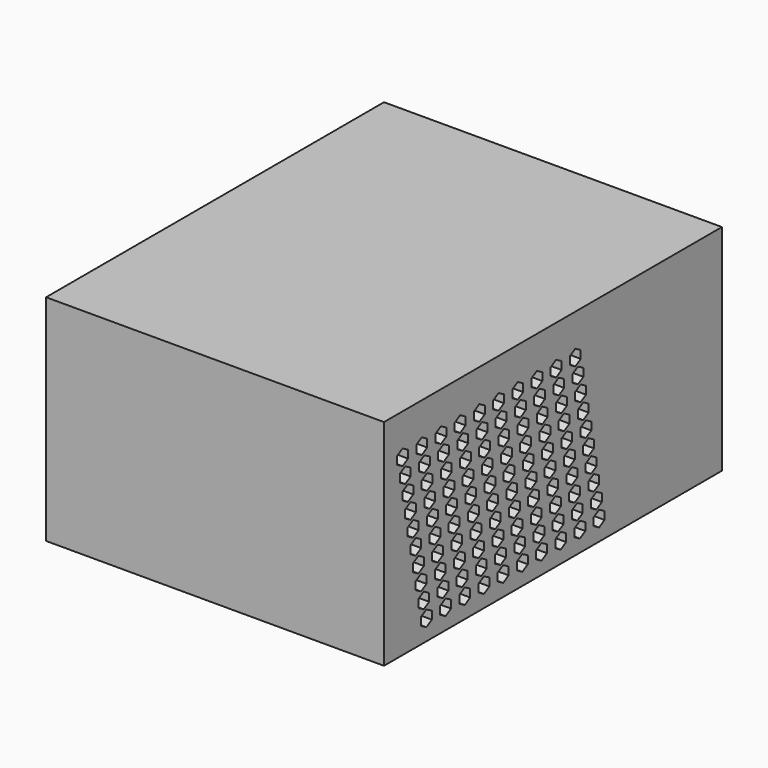
from build123d import *

# Parameters (mm, degrees)
F0_W      = 100
F0_H      = 125
F1_DEPTH  = 63.5
F3_D      = 3.7973
F3_DEPTH  = 15.81
F3_TIP    = 1.1408240143
F2_W      = 27
F2_H      = 20
F2_W_2    = 15
F2_H_2    = 10
F2_W_3    = 11
F2_H_3    = 7
F4_DEPTH  = 2
F2_W_4    = 0.793337822
F2_H_4    = 2.6066917926
F5_DEPTH  = 10
F6_DEPTH  = 100.001
F8_DEPTH  = 25
F10_START = 1.5
F9_R      = 45.5793106307
F10_DEPTH = 49.4


with BuildPart() as f1:
    # F0 (on Top) → F1 (new body)
    with BuildSketch(Plane.XY):
        Rectangle(F0_W, F0_H)
    extrude(amount=F1_DEPTH)

    # F3
    with Locations(Plane(origin=(-50, 0, 0), x_dir=(0, -1, 0), z_dir=(-1, 0, 0))):
        with Locations((-56.5, 57.5), (-56.5, 6), (-56.5, 31.8), (56.5, 6), (56.5, 31.8), (56.5, 57.5)):
            Hole(F3_D / 2, depth=F3_DEPTH)
            with Locations((0, 0, -(F3_DEPTH + F3_TIP / 2))):  # 118° drill point
                Cone(0, F3_D / 2, F3_TIP, mode=Mode.SUBTRACT)

    # F2 (on face) → F4 (join)
    with BuildSketch(Plane(origin=(-50, 0, 0), x_dir=(0, -1, 0), z_dir=(-1, 0, 0))):
        with Locations((-36.0971478522, 32.9822052637)):
            Rectangle(F2_W, F2_H)
        Polygon((-26.4780379832, 26.9658826292), (-45.6803441048, 26.9658826292), (-45.6803441048, 35.9738171101), (-42.5558009178, 39.6074281954), (-29.6030379832, 39.6074281954), (-26.4780379832, 35.9738171101), align=None, mode=Mode.SUBTRACT)
        with Locations((-42.0971478522, 16.0745094717)):
            Rectangle(F2_W_2, F2_H_2)
        with Locations((-42.038947314, 16.0784985721)):
            Rectangle(F2_W_3, F2_H_3, mode=Mode.SUBTRACT)
    extrude(amount=F4_DEPTH)

    # F2 (on face) → F5 (cut)
    with BuildSketch(Plane(origin=(-50, 0, 0), x_dir=(0, -1, 0), z_dir=(-1, 0, 0))):
        Polygon((-45.6803441048, 35.9738171101), (-45.6803441048, 26.9658826292), (-26.4780379832, 26.9658826292), (-26.4780379832, 35.9738171101), (-29.6030379832, 39.6074281954), (-42.5558009178, 39.6074281954), align=None)
        with Locations((-39.9250648916, 30.7356692478)):
            Rectangle(F2_W_4, F2_H_4, mode=Mode.SUBTRACT)
        with Locations((-31.7026637495, 30.6698288769)):
            Rectangle(F2_W_4, F2_H_4, mode=Mode.SUBTRACT)
        with Locations((-36.0245741904, 34.5517806709)):
            Rectangle(F2_W_4, F2_H_4, mode=Mode.SUBTRACT)
    extrude(amount=-F5_DEPTH, mode=Mode.SUBTRACT)

    # F2 (on face) → F6 (cut, through all)
    with BuildSketch(Plane(origin=(-50, 0, 0), x_dir=(0, -1, 0), z_dir=(-1, 0, 0))):
        Polygon((48.8388012663, 6), (44.821796523, 6), (44.821796523, 4.8403906151), (46.8302988946, 3.6807812302), (48.8388012663, 4.8403906151), align=None)
        Polygon((44.821796523, 7.1596093849), (44.821796523, 6), (48.8388012663, 6), (48.8388012663, 7.1596093849), (46.8302988946, 8.3192187698), align=None)
        Polygon((47.8085023716, 13.3788281547), (45.8, 12.2192187698), (45.8, 9.9), (47.8085023716, 8.7403906151), (49.8170047432, 9.9), (49.8170047432, 12.2192187698), align=None)
        Polygon((48.7867058486, 18.4384375397), (46.778203477, 17.2788281547), (46.778203477, 14.9596093849), (48.7867058486, 13.8), (50.7952082202, 14.9596093849), (50.7952082202, 17.2788281547), align=None)
        Polygon((49.7649093255, 23.4980469246), (47.7564069539, 22.3384375397), (47.7564069539, 20.0192187698), (49.7649093255, 18.8596093849), (51.7734116971, 20.0192187698), (51.7734116971, 22.3384375397), align=None)
        Polygon((50.7431128025, 28.5576563095), (48.7346104309, 27.3980469246), (48.7346104309, 25.0788281547), (50.7431128025, 23.9192187698), (52.7516151741, 25.0788281547), (52.7516151741, 27.3980469246), align=None)
        Polygon((51.7213162795, 33.6172656944), (49.7128139079, 32.4576563095), (49.7128139079, 30.1384375397), (51.7213162795, 28.9788281547), (53.7298186511, 30.1384375397), (53.7298186511, 32.4576563095), align=None)
        Polygon((52.6995197564, 38.6768750793), (50.6910173848, 37.5172656944), (50.6910173848, 35.1980469246), (52.6995197564, 34.0384375397), (54.708022128, 35.1980469246), (54.708022128, 37.5172656944), align=None)
        Polygon((53.6777232334, 43.7364844642), (51.6692208618, 42.5768750793), (51.6692208618, 40.2576563095), (53.6777232334, 39.0980469246), (55.686225605, 40.2576563095), (55.686225605, 42.5768750793), align=None)
        Polygon((54.6559267104, 48.7960938492), (52.6474243388, 47.6364844642), (52.6474243388, 45.3172656944), (54.6559267104, 44.1576563095), (56.664429082, 45.3172656944), (56.664429082, 47.6364844642), align=None)
        Polygon((55.6341301873, 53.8557032341), (53.6256278157, 52.6960938492), (53.6256278157, 50.3768750793), (55.6341301873, 49.2172656944), (57.6426325589, 50.3768750793), (57.6426325589, 52.6960938492), align=None)
        Polygon((37.721796523, 7.1596093849), (37.721796523, 6), (41.7388012663, 6), (41.7388012663, 7.1596093849), (39.7302988946, 8.3192187698), align=None)
        Polygon((41.7388012663, 6), (37.721796523, 6), (37.721796523, 4.8403906151), (39.7302988946, 3.6807812302), (41.7388012663, 4.8403906151), align=None)
        Polygon((34.6388012663, 6), (30.621796523, 6), (30.621796523, 4.8403906151), (32.6302988946, 3.6807812302), (34.6388012663, 4.8403906151), align=None)
        Polygon((30.621796523, 7.1596093849), (30.621796523, 6), (34.6388012663, 6), (34.6388012663, 7.1596093849), (32.6302988946, 8.3192187698), align=None)
        Polygon((23.521796523, 7.1596093849), (23.521796523, 6), (27.5388012663, 6), (27.5388012663, 7.1596093849), (25.5302988946, 8.3192187698), align=None)
        Polygon((27.5388012663, 6), (23.521796523, 6), (23.521796523, 4.8403906151), (25.5302988946, 3.6807812302), (27.5388012663, 4.8403906151), align=None)
        Polygon((20.4388012663, 6), (16.421796523, 6), (16.421796523, 4.8403906151), (18.4302988946, 3.6807812302), (20.4388012663, 4.8403906151), align=None)
        Polygon((16.421796523, 7.1596093849), (16.421796523, 6), (20.4388012663, 6), (20.4388012663, 7.1596093849), (18.4302988946, 8.3192187698), align=None)
        Polygon((9.321796523, 7.1596093849), (9.321796523, 6), (13.3388012663, 6), (13.3388012663, 7.1596093849), (11.3302988946, 8.3192187698), align=None)
        Polygon((13.3388012663, 6), (9.321796523, 6), (9.321796523, 4.8403906151), (11.3302988946, 3.6807812302), (13.3388012663, 4.8403906151), align=None)
        Polygon((6.2388012663, 6), (2.221796523, 6), (2.221796523, 4.8403906151), (4.2302988946, 3.6807812302), (6.2388012663, 4.8403906151), align=None)
        Polygon((2.221796523, 7.1596093849), (2.221796523, 6), (6.2388012663, 6), (6.2388012663, 7.1596093849), (4.2302988946, 8.3192187698), align=None)
        Polygon((-4.878203477, 7.1596093849), (-4.878203477, 6), (-0.8611987337, 6), (-0.8611987337, 7.1596093849), (-2.8697011054, 8.3192187698), align=None)
        Polygon((-0.8611987337, 6), (-4.878203477, 6), (-4.878203477, 4.8403906151), (-2.8697011054, 3.6807812302), (-0.8611987337, 4.8403906151), align=None)
        Polygon((-7.9611987337, 6), (-11.978203477, 6), (-11.978203477, 4.8403906151), (-9.9697011054, 3.6807812302), (-7.9611987337, 4.8403906151), align=None)
        Polygon((-11.978203477, 7.1596093849), (-11.978203477, 6), (-7.9611987337, 6), (-7.9611987337, 7.1596093849), (-9.9697011054, 8.3192187698), align=None)
        Polygon((-19.078203477, 7.1596093849), (-19.078203477, 6), (-15.0611987337, 6), (-15.0611987337, 7.1596093849), (-17.0697011054, 8.3192187698), align=None)
        Polygon((-15.0611987337, 6), (-19.078203477, 6), (-19.078203477, 4.8403906151), (-17.0697011054, 3.6807812302), (-15.0611987337, 4.8403906151), align=None)
        Polygon((-16.0914976284, 13.3788281547), (-18.1, 12.2192187698), (-18.1, 9.9), (-16.0914976284, 8.7403906151), (-14.0829952568, 9.9), (-14.0829952568, 12.2192187698), align=None)
        Polygon((-15.1132941514, 18.4384375397), (-17.121796523, 17.2788281547), (-17.121796523, 14.9596093849), (-15.1132941514, 13.8), (-13.1047917798, 14.9596093849), (-13.1047917798, 17.2788281547), align=None)
        Polygon((-8.0132941514, 18.4384375397), (-10.021796523, 17.2788281547), (-10.021796523, 14.9596093849), (-8.0132941514, 13.8), (-6.0047917798, 14.9596093849), (-6.0047917798, 17.2788281547), align=None)
        Polygon((-8.9914976284, 13.3788281547), (-11, 12.2192187698), (-11, 9.9), (-8.9914976284, 8.7403906151), (-6.9829952568, 9.9), (-6.9829952568, 12.2192187698), align=None)
        Polygon((-7.0350906745, 23.4980469246), (-9.0435930461, 22.3384375397), (-9.0435930461, 20.0192187698), (-7.0350906745, 18.8596093849), (-5.0265883029, 20.0192187698), (-5.0265883029, 22.3384375397), align=None)
        Polygon((-14.1350906745, 23.4980469246), (-16.1435930461, 22.3384375397), (-16.1435930461, 20.0192187698), (-14.1350906745, 18.8596093849), (-12.1265883029, 20.0192187698), (-12.1265883029, 22.3384375397), align=None)
        Polygon((-13.1568871975, 28.5576563095), (-15.1653895691, 27.3980469246), (-15.1653895691, 25.0788281547), (-13.1568871975, 23.9192187698), (-11.1483848259, 25.0788281547), (-11.1483848259, 27.3980469246), align=None)
        Polygon((-6.0568871975, 28.5576563095), (-8.0653895691, 27.3980469246), (-8.0653895691, 25.0788281547), (-6.0568871975, 23.9192187698), (-4.0483848259, 25.0788281547), (-4.0483848259, 27.3980469246), align=None)
        Polygon((-5.0786837205, 33.6172656944), (-7.0871860921, 32.4576563095), (-7.0871860921, 30.1384375397), (-5.0786837205, 28.9788281547), (-3.0701813489, 30.1384375397), (-3.0701813489, 32.4576563095), align=None)
        Polygon((-4.1004802436, 38.6768750793), (-6.1089826152, 37.5172656944), (-6.1089826152, 35.1980469246), (-4.1004802436, 34.0384375397), (-2.091977872, 35.1980469246), (-2.091977872, 37.5172656944), align=None)
        Polygon((-3.1222767666, 43.7364844642), (-5.1307791382, 42.5768750793), (-5.1307791382, 40.2576563095), (-3.1222767666, 39.0980469246), (-1.113774395, 40.2576563095), (-1.113774395, 42.5768750793), align=None)
        Polygon((-2.1440732896, 48.7960938492), (-4.1525756612, 47.6364844642), (-4.1525756612, 45.3172656944), (-2.1440732896, 44.1576563095), (-0.135570918, 45.3172656944), (-0.135570918, 47.6364844642), align=None)
        Polygon((-1.1658698127, 53.8557032341), (-3.1743721843, 52.6960938492), (-3.1743721843, 50.3768750793), (-1.1658698127, 49.2172656944), (0.8426325589, 50.3768750793), (0.8426325589, 52.6960938492), align=None)
        Polygon((-8.2658698127, 53.8557032341), (-10.2743721843, 52.6960938492), (-10.2743721843, 50.3768750793), (-8.2658698127, 49.2172656944), (-6.2573674411, 50.3768750793), (-6.2573674411, 52.6960938492), align=None)
        Polygon((-9.2440732896, 48.7960938492), (-11.2525756612, 47.6364844642), (-11.2525756612, 45.3172656944), (-9.2440732896, 44.1576563095), (-7.235570918, 45.3172656944), (-7.235570918, 47.6364844642), align=None)
        Polygon((-10.2222767666, 43.7364844642), (-12.2307791382, 42.5768750793), (-12.2307791382, 40.2576563095), (-10.2222767666, 39.0980469246), (-8.213774395, 40.2576563095), (-8.213774395, 42.5768750793), align=None)
        Polygon((-11.2004802436, 38.6768750793), (-13.2089826152, 37.5172656944), (-13.2089826152, 35.1980469246), (-11.2004802436, 34.0384375397), (-9.191977872, 35.1980469246), (-9.191977872, 37.5172656944), align=None)
        Polygon((-12.1786837205, 33.6172656944), (-14.1871860921, 32.4576563095), (-14.1871860921, 30.1384375397), (-12.1786837205, 28.9788281547), (-10.1701813489, 30.1384375397), (-10.1701813489, 32.4576563095), align=None)
        Polygon((-1.8914976284, 13.3788281547), (-3.9, 12.2192187698), (-3.9, 9.9), (-1.8914976284, 8.7403906151), (0.1170047432, 9.9), (0.1170047432, 12.2192187698), align=None)
        Polygon((-0.9132941514, 18.4384375397), (-2.921796523, 17.2788281547), (-2.921796523, 14.9596093849), (-0.9132941514, 13.8), (1.0952082202, 14.9596093849), (1.0952082202, 17.2788281547), align=None)
        Polygon((6.1867058486, 18.4384375397), (4.178203477, 17.2788281547), (4.178203477, 14.9596093849), (6.1867058486, 13.8), (8.1952082202, 14.9596093849), (8.1952082202, 17.2788281547), align=None)
        Polygon((5.2085023716, 13.3788281547), (3.2, 12.2192187698), (3.2, 9.9), (5.2085023716, 8.7403906151), (7.2170047432, 9.9), (7.2170047432, 12.2192187698), align=None)
        Polygon((7.1649093255, 23.4980469246), (5.1564069539, 22.3384375397), (5.1564069539, 20.0192187698), (7.1649093255, 18.8596093849), (9.1734116971, 20.0192187698), (9.1734116971, 22.3384375397), align=None)
        Polygon((0.0649093255, 23.4980469246), (-1.9435930461, 22.3384375397), (-1.9435930461, 20.0192187698), (0.0649093255, 18.8596093849), (2.0734116971, 20.0192187698), (2.0734116971, 22.3384375397), align=None)
        Polygon((1.0431128025, 28.5576563095), (-0.9653895691, 27.3980469246), (-0.9653895691, 25.0788281547), (1.0431128025, 23.9192187698), (3.0516151741, 25.0788281547), (3.0516151741, 27.3980469246), align=None)
        Polygon((2.0213162795, 33.6172656944), (0.0128139079, 32.4576563095), (0.0128139079, 30.1384375397), (2.0213162795, 28.9788281547), (4.0298186511, 30.1384375397), (4.0298186511, 32.4576563095), align=None)
        Polygon((2.9995197564, 38.6768750793), (0.9910173848, 37.5172656944), (0.9910173848, 35.1980469246), (2.9995197564, 34.0384375397), (5.008022128, 35.1980469246), (5.008022128, 37.5172656944), align=None)
        Polygon((10.0995197564, 38.6768750793), (8.0910173848, 37.5172656944), (8.0910173848, 35.1980469246), (10.0995197564, 34.0384375397), (12.108022128, 35.1980469246), (12.108022128, 37.5172656944), align=None)
        Polygon((9.1213162795, 33.6172656944), (7.1128139079, 32.4576563095), (7.1128139079, 30.1384375397), (9.1213162795, 28.9788281547), (11.1298186511, 30.1384375397), (11.1298186511, 32.4576563095), align=None)
        Polygon((8.1431128025, 28.5576563095), (6.1346104309, 27.3980469246), (6.1346104309, 25.0788281547), (8.1431128025, 23.9192187698), (10.1516151741, 25.0788281547), (10.1516151741, 27.3980469246), align=None)
        Polygon((11.0777232334, 43.7364844642), (9.0692208618, 42.5768750793), (9.0692208618, 40.2576563095), (11.0777232334, 39.0980469246), (13.086225605, 40.2576563095), (13.086225605, 42.5768750793), align=None)
        Polygon((3.9777232334, 43.7364844642), (1.9692208618, 42.5768750793), (1.9692208618, 40.2576563095), (3.9777232334, 39.0980469246), (5.986225605, 40.2576563095), (5.986225605, 42.5768750793), align=None)
        Polygon((4.9559267104, 48.7960938492), (2.9474243388, 47.6364844642), (2.9474243388, 45.3172656944), (4.9559267104, 44.1576563095), (6.964429082, 45.3172656944), (6.964429082, 47.6364844642), align=None)
        Polygon((5.9341301873, 53.8557032341), (3.9256278157, 52.6960938492), (3.9256278157, 50.3768750793), (5.9341301873, 49.2172656944), (7.9426325589, 50.3768750793), (7.9426325589, 52.6960938492), align=None)
        Polygon((13.0341301873, 53.8557032341), (11.0256278157, 52.6960938492), (11.0256278157, 50.3768750793), (13.0341301873, 49.2172656944), (15.0426325589, 50.3768750793), (15.0426325589, 52.6960938492), align=None)
        Polygon((12.0559267104, 48.7960938492), (10.0474243388, 47.6364844642), (10.0474243388, 45.3172656944), (12.0559267104, 44.1576563095), (14.064429082, 45.3172656944), (14.064429082, 47.6364844642), align=None)
        Polygon((26.5085023716, 13.3788281547), (24.5, 12.2192187698), (24.5, 9.9), (26.5085023716, 8.7403906151), (28.5170047432, 9.9), (28.5170047432, 12.2192187698), align=None)
        Polygon((20.3867058486, 18.4384375397), (18.378203477, 17.2788281547), (18.378203477, 14.9596093849), (20.3867058486, 13.8), (22.3952082202, 14.9596093849), (22.3952082202, 17.2788281547), align=None)
        Polygon((14.2649093255, 23.4980469246), (12.2564069539, 22.3384375397), (12.2564069539, 20.0192187698), (14.2649093255, 18.8596093849), (16.2734116971, 20.0192187698), (16.2734116971, 22.3384375397), align=None)
        Polygon((13.2867058486, 18.4384375397), (11.278203477, 17.2788281547), (11.278203477, 14.9596093849), (13.2867058486, 13.8), (15.2952082202, 14.9596093849), (15.2952082202, 17.2788281547), align=None)
        Polygon((12.3085023716, 13.3788281547), (10.3, 12.2192187698), (10.3, 9.9), (12.3085023716, 8.7403906151), (14.3170047432, 9.9), (14.3170047432, 12.2192187698), align=None)
        Polygon((19.4085023716, 13.3788281547), (17.4, 12.2192187698), (17.4, 9.9), (19.4085023716, 8.7403906151), (21.4170047432, 9.9), (21.4170047432, 12.2192187698), align=None)
        Polygon((33.6085023716, 13.3788281547), (31.6, 12.2192187698), (31.6, 9.9), (33.6085023716, 8.7403906151), (35.6170047432, 9.9), (35.6170047432, 12.2192187698), align=None)
        Polygon((27.4867058486, 18.4384375397), (25.478203477, 17.2788281547), (25.478203477, 14.9596093849), (27.4867058486, 13.8), (29.4952082202, 14.9596093849), (29.4952082202, 17.2788281547), align=None)
        Polygon((21.3649093255, 23.4980469246), (19.3564069539, 22.3384375397), (19.3564069539, 20.0192187698), (21.3649093255, 18.8596093849), (23.3734116971, 20.0192187698), (23.3734116971, 22.3384375397), align=None)
        Polygon((15.2431128025, 28.5576563095), (13.2346104309, 27.3980469246), (13.2346104309, 25.0788281547), (15.2431128025, 23.9192187698), (17.2516151741, 25.0788281547), (17.2516151741, 27.3980469246), align=None)
        Polygon((16.2213162795, 33.6172656944), (14.2128139079, 32.4576563095), (14.2128139079, 30.1384375397), (16.2213162795, 28.9788281547), (18.2298186511, 30.1384375397), (18.2298186511, 32.4576563095), align=None)
        Polygon((22.3431128025, 28.5576563095), (20.3346104309, 27.3980469246), (20.3346104309, 25.0788281547), (22.3431128025, 23.9192187698), (24.3516151741, 25.0788281547), (24.3516151741, 27.3980469246), align=None)
        Polygon((23.3213162795, 33.6172656944), (21.3128139079, 32.4576563095), (21.3128139079, 30.1384375397), (23.3213162795, 28.9788281547), (25.3298186511, 30.1384375397), (25.3298186511, 32.4576563095), align=None)
        Polygon((24.2995197564, 38.6768750793), (22.2910173848, 37.5172656944), (22.2910173848, 35.1980469246), (24.2995197564, 34.0384375397), (26.308022128, 35.1980469246), (26.308022128, 37.5172656944), align=None)
        Polygon((17.1995197564, 38.6768750793), (15.1910173848, 37.5172656944), (15.1910173848, 35.1980469246), (17.1995197564, 34.0384375397), (19.208022128, 35.1980469246), (19.208022128, 37.5172656944), align=None)
        Polygon((18.1777232334, 43.7364844642), (16.1692208618, 42.5768750793), (16.1692208618, 40.2576563095), (18.1777232334, 39.0980469246), (20.186225605, 40.2576563095), (20.186225605, 42.5768750793), align=None)
        Polygon((19.1559267104, 48.7960938492), (17.1474243388, 47.6364844642), (17.1474243388, 45.3172656944), (19.1559267104, 44.1576563095), (21.164429082, 45.3172656944), (21.164429082, 47.6364844642), align=None)
        Polygon((20.1341301873, 53.8557032341), (18.1256278157, 52.6960938492), (18.1256278157, 50.3768750793), (20.1341301873, 49.2172656944), (22.1426325589, 50.3768750793), (22.1426325589, 52.6960938492), align=None)
        Polygon((27.2341301873, 53.8557032341), (25.2256278157, 52.6960938492), (25.2256278157, 50.3768750793), (27.2341301873, 49.2172656944), (29.2426325589, 50.3768750793), (29.2426325589, 52.6960938492), align=None)
        Polygon((26.2559267104, 48.7960938492), (24.2474243388, 47.6364844642), (24.2474243388, 45.3172656944), (26.2559267104, 44.1576563095), (28.264429082, 45.3172656944), (28.264429082, 47.6364844642), align=None)
        Polygon((25.2777232334, 43.7364844642), (23.2692208618, 42.5768750793), (23.2692208618, 40.2576563095), (25.2777232334, 39.0980469246), (27.286225605, 40.2576563095), (27.286225605, 42.5768750793), align=None)
        Polygon((40.7085023716, 13.3788281547), (38.7, 12.2192187698), (38.7, 9.9), (40.7085023716, 8.7403906151), (42.7170047432, 9.9), (42.7170047432, 12.2192187698), align=None)
        Polygon((34.5867058486, 18.4384375397), (32.578203477, 17.2788281547), (32.578203477, 14.9596093849), (34.5867058486, 13.8), (36.5952082202, 14.9596093849), (36.5952082202, 17.2788281547), align=None)
        Polygon((28.4649093255, 23.4980469246), (26.4564069539, 22.3384375397), (26.4564069539, 20.0192187698), (28.4649093255, 18.8596093849), (30.4734116971, 20.0192187698), (30.4734116971, 22.3384375397), align=None)
        Polygon((41.6867058486, 18.4384375397), (39.678203477, 17.2788281547), (39.678203477, 14.9596093849), (41.6867058486, 13.8), (43.6952082202, 14.9596093849), (43.6952082202, 17.2788281547), align=None)
        Polygon((35.5649093255, 23.4980469246), (33.5564069539, 22.3384375397), (33.5564069539, 20.0192187698), (35.5649093255, 18.8596093849), (37.5734116971, 20.0192187698), (37.5734116971, 22.3384375397), align=None)
        Polygon((29.4431128025, 28.5576563095), (27.4346104309, 27.3980469246), (27.4346104309, 25.0788281547), (29.4431128025, 23.9192187698), (31.4516151741, 25.0788281547), (31.4516151741, 27.3980469246), align=None)
        Polygon((42.6649093255, 23.4980469246), (40.6564069539, 22.3384375397), (40.6564069539, 20.0192187698), (42.6649093255, 18.8596093849), (44.6734116971, 20.0192187698), (44.6734116971, 22.3384375397), align=None)
        Polygon((36.5431128025, 28.5576563095), (34.5346104309, 27.3980469246), (34.5346104309, 25.0788281547), (36.5431128025, 23.9192187698), (38.5516151741, 25.0788281547), (38.5516151741, 27.3980469246), align=None)
        Polygon((30.4213162795, 33.6172656944), (28.4128139079, 32.4576563095), (28.4128139079, 30.1384375397), (30.4213162795, 28.9788281547), (32.4298186511, 30.1384375397), (32.4298186511, 32.4576563095), align=None)
        Polygon((43.6431128025, 28.5576563095), (41.6346104309, 27.3980469246), (41.6346104309, 25.0788281547), (43.6431128025, 23.9192187698), (45.6516151741, 25.0788281547), (45.6516151741, 27.3980469246), align=None)
        Polygon((37.5213162795, 33.6172656944), (35.5128139079, 32.4576563095), (35.5128139079, 30.1384375397), (37.5213162795, 28.9788281547), (39.5298186511, 30.1384375397), (39.5298186511, 32.4576563095), align=None)
        Polygon((31.3995197564, 38.6768750793), (29.3910173848, 37.5172656944), (29.3910173848, 35.1980469246), (31.3995197564, 34.0384375397), (33.408022128, 35.1980469246), (33.408022128, 37.5172656944), align=None)
        Polygon((32.3777232334, 43.7364844642), (30.3692208618, 42.5768750793), (30.3692208618, 40.2576563095), (32.3777232334, 39.0980469246), (34.386225605, 40.2576563095), (34.386225605, 42.5768750793), align=None)
        Polygon((38.4995197564, 38.6768750793), (36.4910173848, 37.5172656944), (36.4910173848, 35.1980469246), (38.4995197564, 34.0384375397), (40.508022128, 35.1980469246), (40.508022128, 37.5172656944), align=None)
        Polygon((44.6213162795, 33.6172656944), (42.6128139079, 32.4576563095), (42.6128139079, 30.1384375397), (44.6213162795, 28.9788281547), (46.6298186511, 30.1384375397), (46.6298186511, 32.4576563095), align=None)
        Polygon((45.5995197564, 38.6768750793), (43.5910173848, 37.5172656944), (43.5910173848, 35.1980469246), (45.5995197564, 34.0384375397), (47.608022128, 35.1980469246), (47.608022128, 37.5172656944), align=None)
        Polygon((46.5777232334, 43.7364844642), (44.5692208618, 42.5768750793), (44.5692208618, 40.2576563095), (46.5777232334, 39.0980469246), (48.586225605, 40.2576563095), (48.586225605, 42.5768750793), align=None)
        Polygon((39.4777232334, 43.7364844642), (37.4692208618, 42.5768750793), (37.4692208618, 40.2576563095), (39.4777232334, 39.0980469246), (41.486225605, 40.2576563095), (41.486225605, 42.5768750793), align=None)
        Polygon((40.4559267104, 48.7960938492), (38.4474243388, 47.6364844642), (38.4474243388, 45.3172656944), (40.4559267104, 44.1576563095), (42.464429082, 45.3172656944), (42.464429082, 47.6364844642), align=None)
        Polygon((33.3559267104, 48.7960938492), (31.3474243388, 47.6364844642), (31.3474243388, 45.3172656944), (33.3559267104, 44.1576563095), (35.364429082, 45.3172656944), (35.364429082, 47.6364844642), align=None)
        Polygon((34.3341301873, 53.8557032341), (32.3256278157, 52.6960938492), (32.3256278157, 50.3768750793), (34.3341301873, 49.2172656944), (36.3426325589, 50.3768750793), (36.3426325589, 52.6960938492), align=None)
        Polygon((41.4341301873, 53.8557032341), (39.4256278157, 52.6960938492), (39.4256278157, 50.3768750793), (41.4341301873, 49.2172656944), (43.4426325589, 50.3768750793), (43.4426325589, 52.6960938492), align=None)
        Polygon((47.5559267104, 48.7960938492), (45.5474243388, 47.6364844642), (45.5474243388, 45.3172656944), (47.5559267104, 44.1576563095), (49.564429082, 45.3172656944), (49.564429082, 47.6364844642), align=None)
        Polygon((48.5341301873, 53.8557032341), (46.5256278157, 52.6960938492), (46.5256278157, 50.3768750793), (48.5341301873, 49.2172656944), (50.5426325589, 50.3768750793), (50.5426325589, 52.6960938492), align=None)
    extrude(amount=-F6_DEPTH, mode=Mode.SUBTRACT)

    # F7 (on face) → F8 (cut)
    with BuildSketch(Plane(origin=(0, 0, 0), x_dir=(1, 0, 0), z_dir=(0, 0, -1))):
        with BuildLine():
            ThreePointArc((-25.4776372531, -38.3), (0, -46), (25.4776372531, -38.3))
            Line((25.4776372531, -38.3), (-25.4776372531, -38.3))
        make_face()
        with BuildLine():
            ThreePointArc((27.6, -36.8), (31.8464215111, -33.1934547303), (35.6256929757, -29.1))
            Line((35.6256929757, -29.1), (-35.6256929757, -29.1))
            ThreePointArc((-35.6256929757, -29.1), (-31.8464215111, -33.1934547303), (-27.6, -36.8))
            Line((-27.6, -36.8), (27.6, -36.8))
        make_face()
        with BuildLine():
            ThreePointArc((36.8, -27.6), (39.3252949573, -23.8646428114), (41.4727621458, -19.9))
            Line((41.4727621458, -19.9), (-41.4727621458, -19.9))
            ThreePointArc((-41.4727621458, -19.9), (-39.3252949573, -23.8646428114), (-36.8, -27.6))
            Line((-36.8, -27.6), (36.8, -27.6))
        make_face()
        with BuildLine():
            ThreePointArc((42.1596963936, -18.4), (43.6192076948, -14.607009279), (44.7382386779, -10.7))
            Line((44.7382386779, -10.7), (-44.7382386779, -10.7))
            ThreePointArc((-44.7382386779, -10.7), (-43.6192076948, -14.607009279), (-42.1596963936, -18.4))
            Line((-42.1596963936, -18.4), (42.1596963936, -18.4))
        make_face()
        with BuildLine():
            ThreePointArc((45.0706112672, -9.2), (45.7278500062, -4.9963720648), (45.9938854632, -0.75))
            Line((45.9938854632, -0.75), (-45.9938854632, -0.75))
            ThreePointArc((-45.9938854632, -0.75), (-45.7278500062, -4.9963720648), (-45.0706112672, -9.2))
            Line((-45.0706112672, -9.2), (45.0706112672, -9.2))
        make_face()
        with BuildLine():
            Line((-45.9938854632, 0.75), (45.9938854632, 0.75))
            ThreePointArc((45.9938854632, 0.75), (45.7278500062, 4.9963720648), (45.0706112672, 9.2))
            Line((45.0706112672, 9.2), (-45.0706112672, 9.2))
            ThreePointArc((-45.0706112672, 9.2), (-45.7278500062, 4.9963720648), (-45.9938854632, 0.75))
        make_face()
        with BuildLine():
            Line((-44.7382386779, 10.7), (44.7382386779, 10.7))
            ThreePointArc((44.7382386779, 10.7), (43.6192076948, 14.607009279), (42.1596963936, 18.4))
            Line((42.1596963936, 18.4), (-42.1596963936, 18.4))
            ThreePointArc((-42.1596963936, 18.4), (-43.6192076948, 14.607009279), (-44.7382386779, 10.7))
        make_face()
        with BuildLine():
            Line((-41.4727621458, 19.9), (41.4727621458, 19.9))
            ThreePointArc((41.4727621458, 19.9), (39.3252949573, 23.8646428114), (36.8, 27.6))
            Line((36.8, 27.6), (-36.8, 27.6))
            ThreePointArc((-36.8, 27.6), (-39.3252949573, 23.8646428114), (-41.4727621458, 19.9))
        make_face()
        with BuildLine():
            Line((-35.6256929757, 29.1), (35.6256929757, 29.1))
            ThreePointArc((35.6256929757, 29.1), (31.8464215111, 33.1934547303), (27.6, 36.8))
            Line((27.6, 36.8), (-27.6, 36.8))
            ThreePointArc((-27.6, 36.8), (-31.8464215111, 33.1934547303), (-35.6256929757, 29.1))
        make_face()
        with BuildLine():
            Line((-25.4776372531, 38.3), (25.4776372531, 38.3))
            ThreePointArc((25.4776372531, 38.3), (0, 46), (-25.4776372531, 38.3))
        make_face()
    extrude(amount=-F8_DEPTH, mode=Mode.SUBTRACT)

    # F9 (on Top) → F10 (cut)
    with BuildSketch(Plane.XY.offset(F10_START)):
        Circle(F9_R)
    extrude(amount=F10_DEPTH, mode=Mode.SUBTRACT)


solid = f1.part
